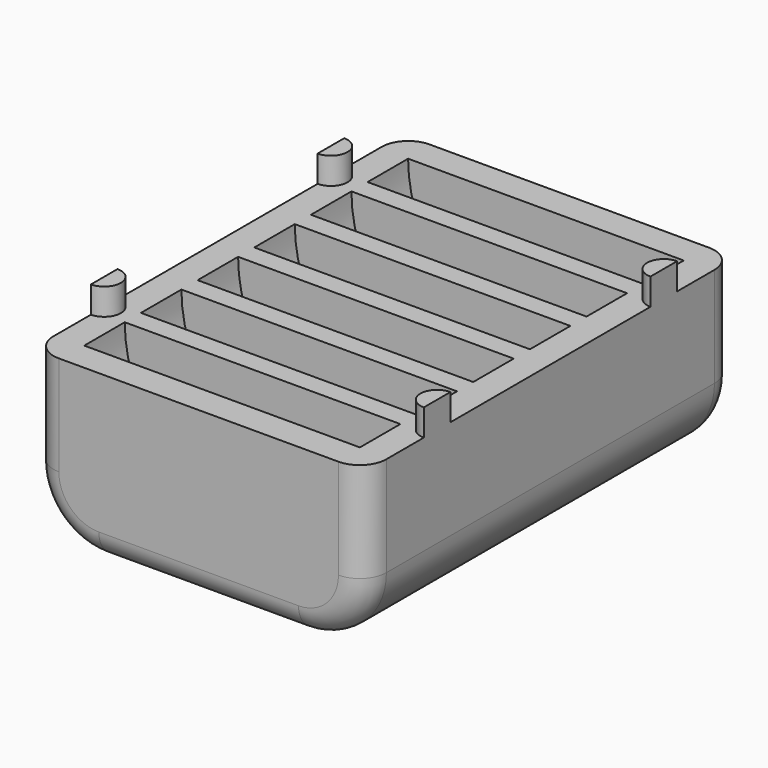
from build123d import *

# Parameters (mm, degrees)
F0_W     = 25
F0_H     = 34.8
F1_DEPTH = 12.5
F3_START = -2.2
F2_R     = 10.35
F3_DEPTH = 30.4
F4_W     = 20.7
F4_H     = 1.52
F5_DEPTH = 10.6
F6_R     = 5
F7_R     = 2
F9_DEPTH = 2


with BuildPart() as f1:
    # F0 (on Top) → F1 (new body)
    with BuildSketch(Plane.XY):
        with Locations((-17.5982150249, -9.7193448131)):
            Rectangle(F0_W, F0_H)
    extrude(amount=F1_DEPTH)

    # F2 (on face) → F3 (cut)
    with BuildSketch(Plane.XZ.offset(27.1193448131).offset(F3_START)):
        with Locations((-17.5982150249, 12.5)):
            Circle(F2_R)
    extrude(amount=-F3_DEPTH, mode=Mode.SUBTRACT)

    # F4 (on face) → F5 (join)
    with BuildSketch(Plane.XY.offset(12.5)):
        with Locations((-17.5982150249, 0.9206551869)):
            Rectangle(F4_W, F4_H)
        with Locations((-17.5982150249, -4.3993448131)):
            Rectangle(F4_W, F4_H)
        with Locations((-17.5982150249, -9.7193448131)):
            Rectangle(F4_W, F4_H)
        with Locations((-17.5982150249, -15.0393448131)):
            Rectangle(F4_W, F4_H)
        with Locations((-17.5982150249, -20.3593448131)):
            Rectangle(F4_W, F4_H)
    extrude(amount=-F5_DEPTH)

    # F6
    f6_edges = [f1.edges().sort_by_distance(p)[0] for p in [
        (-5.098215, -9.719345, 0),
        (-30.098215, -9.719345, 0),
    ]]
    fillet(f6_edges, radius=F6_R)

    # F7
    f7_edges = [f1.edges().sort_by_distance(p)[0] for p in [
        (-5.098215, -27.119345, 8.75),
        (-5.098215, 7.680655, 8.75),
    ]]
    fillet(f7_edges, radius=F7_R)

    # F8 (on face) → F9 (join)
    with BuildSketch(Plane.XY.offset(12.5)):
        with BuildLine():
            Line((-30.0982150249, 2.1706551869), (-30.0982150249, -0.3293448131))
            ThreePointArc((-30.0982150249, -0.3293448131), (-28.8482150249, 0.9206551869), (-30.0982150249, 2.1706551869))
        make_face()
        with BuildLine():
            Line((-5.0982150249, -0.3293448131), (-5.0982150249, 2.1706551869))
            ThreePointArc((-5.0982150249, 2.1706551869), (-6.3482150249, 0.9206551869), (-5.0982150249, -0.3293448131))
        make_face()
        with BuildLine():
            ThreePointArc((-5.0982150249, -19.1093448131), (-6.3482150249, -20.3593448131), (-5.0982150249, -21.6093448131))
            Line((-5.0982150249, -21.6093448131), (-5.0982150249, -19.1093448131))
        make_face()
        with BuildLine():
            ThreePointArc((-30.0982150249, -21.6093448131), (-28.8482150249, -20.3593448131), (-30.0982150249, -19.1093448131))
            Line((-30.0982150249, -19.1093448131), (-30.0982150249, -21.6093448131))
        make_face()
    extrude(amount=F9_DEPTH)


solid = f1.part
